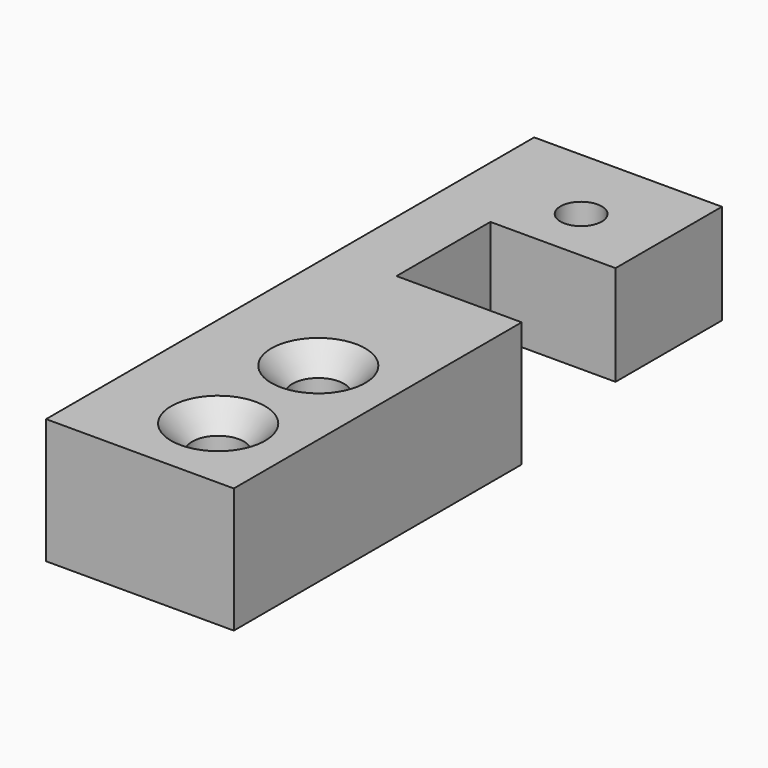
from build123d import *

# Parameters (mm, degrees)
SKETCH099_R         = 1.32
PAD061_DEPTH        = 8
POCKET030_DEPTH     = 1.6
HOLE006_D           = 3.3
HOLE006_CSINK_D     = 6
HOLE006_CSINK_ANGLE = 82


with BuildPart() as part:
    # Sketch099 → Pad061 (new body)
    with BuildSketch(Plane.XY):
        Polygon((-7, -44), (5, -44), (5, -21), (-3, -21), (-3, -13.5), (5, -13.5), (5, -5), (-7, -5), align=None)
        with Locations((0, -10)):
            Circle(SKETCH099_R, mode=Mode.SUBTRACT)
    extrude(amount=PAD061_DEPTH)

    # Sketch100 → Pocket030 (cut)
    with BuildSketch(Plane.XY):
        with BuildLine():
            Line((6, -21), (-3, -21))
            Line((-3, -21), (-3, -8))
            ThreePointArc((-3, -8), (-3.87868, -5.87868), (-6, -5))
            Line((-6, -5), (-6, 4))
            Line((-6, 4), (6, 4))
            Line((6, 4), (6, -21))
        make_face()
    extrude(amount=POCKET030_DEPTH, mode=Mode.SUBTRACT)

    # Hole006 (through all)
    with Locations(Plane.XY.offset(8)):
        with Locations((0, -31), (0, -39)):
            CounterSinkHole(HOLE006_D / 2, HOLE006_CSINK_D / 2, counter_sink_angle=HOLE006_CSINK_ANGLE)


solid = part.part
